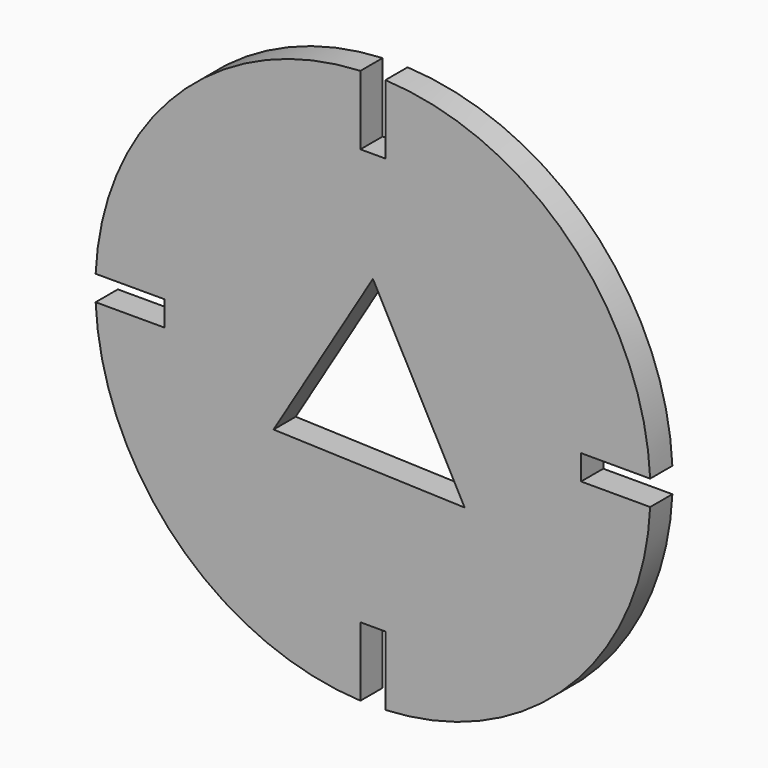
from build123d import *

# Parameters (mm, degrees)
F1_DEPTH = 3


with BuildPart() as f1:
    # F0 (on Front) → F1 (new body)
    with BuildSketch(Plane.XZ):
        with BuildLine():
            Line((-1.35, 22.5), (-1.35, 29.96961))
            ThreePointArc((-1.35, 29.96961), (-21.213203, 21.213203), (-29.96961, 1.35))
            Line((-29.96961, 1.35), (-22.5, 1.35))
            Line((-22.5, 1.35), (-22.5, -1.35))
            Line((-22.5, -1.35), (-29.96961, -1.35))
            ThreePointArc((-29.96961, -1.35), (-21.213203, -21.213203), (-1.35, -29.96961))
            Line((-1.35, -29.96961), (-1.35, -22.5))
            Line((-1.35, -22.5), (1.35, -22.5))
            Line((1.35, -22.5), (1.35, -29.96961))
            ThreePointArc((1.35, -29.96961), (21.213203, -21.213203), (29.96961, -1.35))
            Line((29.96961, -1.35), (22.5, -1.35))
            Line((22.5, -1.35), (22.5, 1.35))
            Line((22.5, 1.35), (29.96961, 1.35))
            ThreePointArc((29.96961, 1.35), (21.213203, 21.213203), (1.35, 29.96961))
            Line((1.35, 29.96961), (1.35, 22.5))
            Line((1.35, 22.5), (-1.35, 22.5))
        make_face()
        Polygon((9.920354, -7.923165), (-10.738208, -7.215681), (0, 10.612941), align=None, mode=Mode.SUBTRACT)
    extrude(amount=F1_DEPTH)


solid = f1.part
